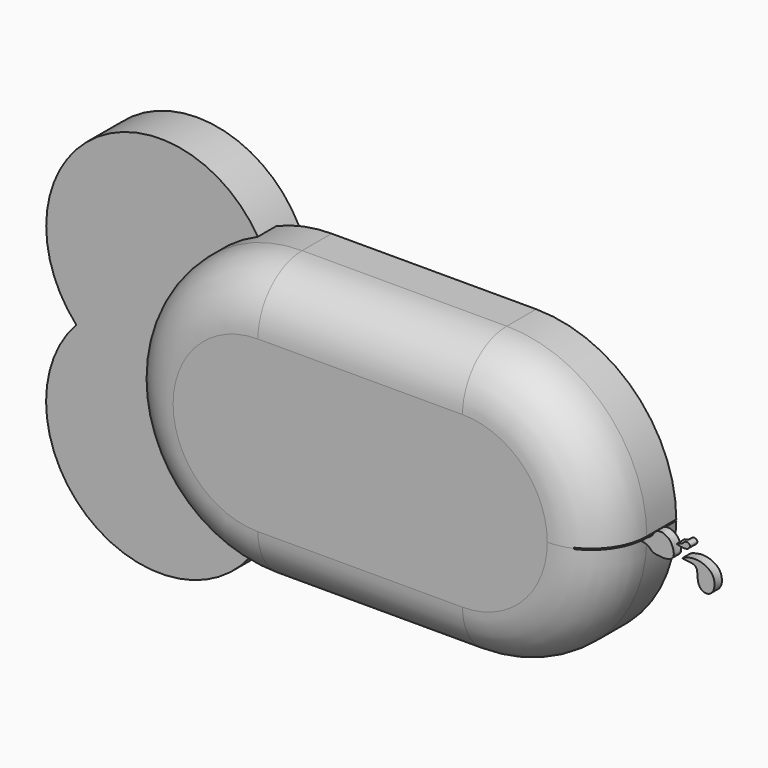
from build123d import *

# Parameters (mm, degrees)
F2_DEPTH = 50
F4_DEPTH = 12.5
F5_R     = 30
F6_W     = 18.3814466
F6_H     = 0.7109052385
F7_DEPTH = 62.501
F9_DEPTH = 5


with BuildPart() as f2:
    # F0 (on Front) → F2 (new body)
    with BuildSketch(Plane.XZ):
        with BuildLine():
            ThreePointArc((55.5, 51.9206124771), (30.2492433933, 69.7207521053), (0, 76))
            ThreePointArc((0, 76), (-76, 0), (0, -76))
            ThreePointArc((0, -76), (30.2492433933, -69.7207521053), (55.5, -51.9206124771))
            ThreePointArc((55.5, -51.9206124771), (35, 0), (55.5, 51.9206124771))
        make_face()
        with BuildLine():
            ThreePointArc((111, 76), (80.7507566067, 69.7207521053), (55.5, 51.9206124771))
            ThreePointArc((55.5, 51.9206124771), (70.6894617323, 27.9105714739), (76, 0))
            ThreePointArc((76, 0), (70.6894617323, -27.9105714739), (55.5, -51.9206124771))
            ThreePointArc((55.5, -51.9206124771), (80.7507566067, -69.7207521053), (111, -76))
            ThreePointArc((111, -76), (164.7401153702, -53.7401153702), (187, 0))
            ThreePointArc((187, 0), (164.7401153702, 53.7401153702), (111, 76))
        make_face()
        with BuildLine():
            ThreePointArc((76, 0), (70.6894617323, 27.9105714739), (55.5, 51.9206124771))
            ThreePointArc((55.5, 51.9206124771), (35, 0), (55.5, -51.9206124771))
            ThreePointArc((55.5, -51.9206124771), (70.6894617323, -27.9105714739), (76, 0))
        make_face()
        with BuildLine():
            ThreePointArc((55.5, -51.9206124771), (30.2492433933, -69.7207521053), (0, -76))
            Line((0, -76), (111, -76))
            ThreePointArc((111, -76), (80.7507566067, -69.7207521053), (55.5, -51.9206124771))
        make_face()
        with BuildLine():
            Line((111, 76), (0, 76))
            ThreePointArc((0, 76), (30.2492433933, 69.7207521053), (55.5, 51.9206124771))
            ThreePointArc((55.5, 51.9206124771), (80.7507566067, 69.7207521053), (111, 76))
        make_face()
    extrude(amount=F2_DEPTH)

    # F3 (on Front) → F4 (join, symmetric)
    with BuildSketch(Plane.XZ):
        with BuildLine():
            ThreePointArc((-37.2815726812, -4.2733152497), (-25.2166728338, 15.1217985527), (-21.0039791425, 37.5714190304))
            ThreePointArc((-21.0039791425, 37.5714190304), (-105.3774286433, 95.2825543621), (-128.5740436499, -4.2733152497))
            ThreePointArc((-128.5740436499, -4.2733152497), (-82.9278081656, 15.7693113089), (-37.2815726812, -4.2733152497))
        make_face()
        with BuildLine():
            ThreePointArc((-37.2815726812, -4.2733152497), (-82.9278081656, 15.7693113089), (-128.5740436499, -4.2733152497))
            ThreePointArc((-128.5740436499, -4.2733152497), (-82.9278081656, -24.3524099926), (-37.2815726812, -4.2733152497))
        make_face()
        with BuildLine():
            ThreePointArc((-37.2815726812, -4.2733152497), (-82.9278081656, -24.3524099926), (-128.5740436499, -4.2733152497))
            ThreePointArc((-128.5740436499, -4.2733152497), (-105.443729199, -103.9977493747), (-20.9278081656, -46.2306886911))
            ThreePointArc((-20.9278081656, -46.2306886911), (-25.160747482, -23.7147676577), (-37.2815726812, -4.2733152497))
        make_face()
    extrude(amount=F4_DEPTH, both=True)

    # F5
    f5_edges = [f2.edges().sort_by_distance(p)[0] for p in [
        (-76, -50, 0),
    ]]
    fillet(f5_edges, radius=F5_R)

    # F6 (on face) → F7 (cut, through all)
    with BuildSketch(Plane.XZ.offset(50)):
        with Locations((178.4760802984, 0)):
            Rectangle(F6_W, F6_H)
    extrude(amount=-F7_DEPTH, mode=Mode.SUBTRACT)


with BuildPart() as f9:
    # F8 (on offset) → F9 (new body)
    with BuildSketch(Plane.XZ.offset(19)):
        with BuildLine():
            add(Edge.make_bspline(
                [(186.2353235483, 0), (186.2044547177, 0.0747911149), (188.300233226, 0.2494545876), (189.6482831856, 2.2797572105), (193.4409479742, 3.9003962391), (194.8624348442, 8.0073175867), (199.2328967978, 7.5651171233), (199.4291318595, 7.3008771556), (202.874390791, 5.9546585675), (204.8134458048, 1.2419933071), (205.0257982249, -2.4046181354), (201.7339024152, -4.6171954825), (196.1737072863, -4.1900667093), (192.7361364962, -3.5673430279), (191.0633411793, -0.3373509327), (186.2843874562, -0.1188753932), (186.2353235483, 0)],
                knots=[0, 0, 0, 0, 0.050794177, 0.1149212878, 0.1933829982, 0.2728438513, 0.3475405453, 0.3711307562, 0.4420088406, 0.5327126918, 0.6047221035, 0.6778533767, 0.7719603796, 0.8436183932, 0.9192661084, 1, 1, 1, 1], degree=3))
        make_face()
    extrude(amount=F9_DEPTH)


with BuildPart() as f9b:
    # F8 (on offset) → F9, piece 2 (new body)
    with BuildSketch(Plane.XZ.offset(19)):
        with BuildLine():
            add(Edge.make_bspline(
                [(209.602072835, -1.1549931951), (209.3292691552, -0.7927123319), (214.4345773804, 1.0295634406), (220.4437596795, 0.5749949714), (226.9075024996, -3.3329207005), (227.401233462, -11.0387557491), (223.2432169573, -14.6067805636), (218.7680861026, -12.6100443573), (217.7391292396, -8.8005006064), (217.6264051934, -5.9155625885), (217.3056110412, -1.2058594552), (209.9383492923, -1.6015653431), (209.602072835, -1.1549931951)],
                knots=[0, 0, 0, 0, 0.093238953, 0.2114185799, 0.329005134, 0.4461217063, 0.5416516708, 0.6325090369, 0.7187012775, 0.7970382991, 0.8850672952, 1, 1, 1, 1], degree=3))
        make_face()
    extrude(amount=F9_DEPTH)


with BuildPart() as f9c:
    # F8 (on offset) → F9, piece 3 (new body)
    with BuildSketch(Plane.XZ.offset(19)):
        with BuildLine():
            add(Edge.make_bspline(
                [(206.5117806196, 4.8142769374), (206.5822881024, 5.0811938009), (209.4327518341, 5.4345017137), (210.4997655977, 7.1437609229), (212.367137802, 7.6564093645), (214.158969439, 6.2477702854), (212.6146639333, 3.8412251138), (209.353672071, 3.7956908767), (206.4416112252, 4.5486399591), (206.5117806196, 4.8142769374)],
                knots=[0, 0, 0, 0, 0.1523127077, 0.2905024212, 0.411958959, 0.5350974972, 0.6706383582, 0.8484176425, 1, 1, 1, 1], degree=3))
        make_face()
    extrude(amount=F9_DEPTH)


solid = Compound([f2.part, f9.part, f9b.part, f9c.part])
